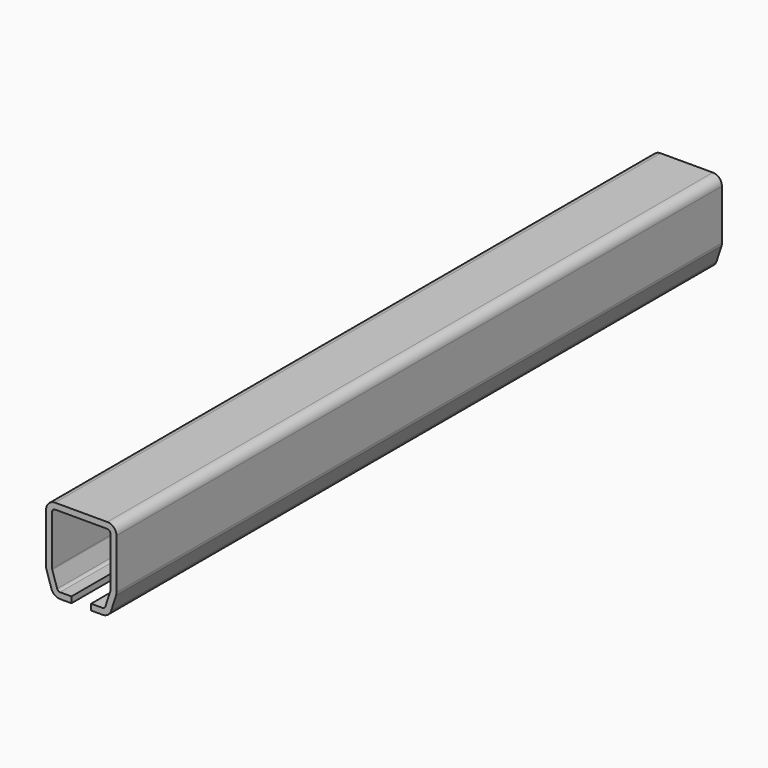
from build123d import *

# Parameters (mm, degrees)
F1_DEPTH = 1000


with BuildPart() as f1:
    # F0 (on Front) → F1 (new body)
    with BuildSketch(Plane.XZ):
        with BuildLine():
            Line((-45.912678, -26.807591), (-39.446577, -46.708204))
            ThreePointArc((-39.446577, -46.708204), (-35.087322, -52.708204), (-28.033899, -55))
            Line((-28.033899, -55), (-13, -55))
            Line((-13, -55), (-13, -47))
            Line((-13, -47), (-28.033899, -47))
            ThreePointArc((-28.033899, -47), (-30.38504, -46.236068), (-31.838125, -44.236068))
            Line((-31.838125, -44.236068), (-38.304226, -24.335455))
            ThreePointArc((-38.304226, -24.335455), (-38.450753, -23.725125), (-38.5, -23.099387))
            Line((-38.5, -23.099387), (-38.5, 43))
            ThreePointArc((-38.5, 43), (-37.328427, 45.828427), (-34.5, 47))
            Line((-34.5, 47), (34.5, 47))
            ThreePointArc((34.5, 47), (37.328427, 45.828427), (38.5, 43))
            Line((38.5, 43), (38.5, -23.099387))
            ThreePointArc((38.5, -23.099387), (38.450753, -23.725125), (38.304226, -24.335455))
            Line((38.304226, -24.335455), (31.838125, -44.236068))
            ThreePointArc((31.838125, -44.236068), (30.38504, -46.236068), (28.033899, -47))
            Line((28.033899, -47), (13, -47))
            Line((13, -47), (13, -55))
            Line((13, -55), (28.033899, -55))
            ThreePointArc((28.033899, -55), (35.087322, -52.708204), (39.446577, -46.708204))
            Line((39.446577, -46.708204), (45.912678, -26.807591))
            ThreePointArc((45.912678, -26.807591), (46.35226, -24.976601), (46.5, -23.099387))
            Line((46.5, -23.099387), (46.5, 43))
            ThreePointArc((46.5, 43), (42.985281, 51.485281), (34.5, 55))
            Line((34.5, 55), (-34.5, 55))
            ThreePointArc((-34.5, 55), (-42.985281, 51.485281), (-46.5, 43))
            Line((-46.5, 43), (-46.5, -23.099387))
            ThreePointArc((-46.5, -23.099387), (-46.35226, -24.976601), (-45.912678, -26.807591))
        make_face()
    extrude(amount=F1_DEPTH)


solid = f1.part
